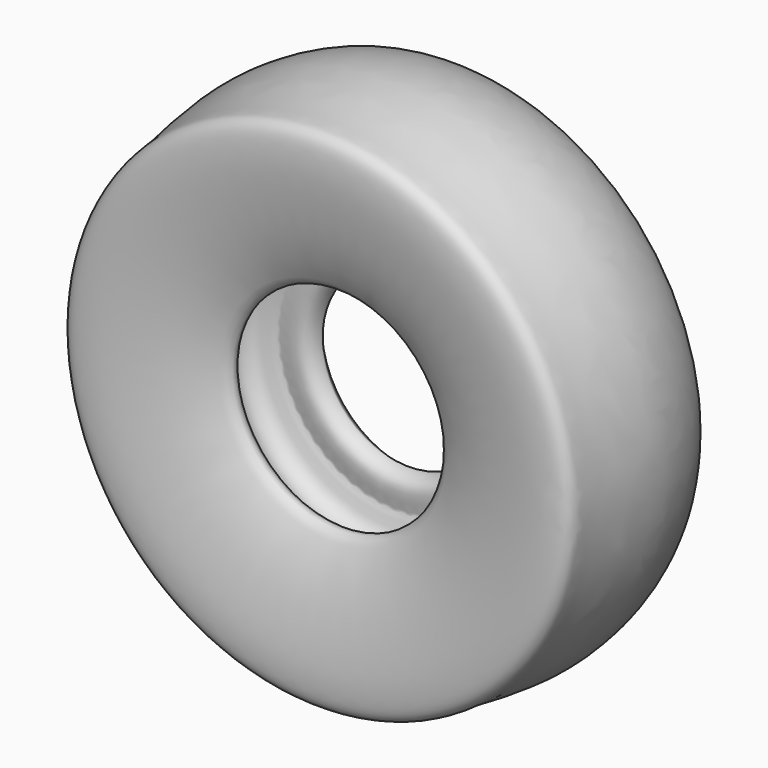
from build123d import *


with BuildPart() as f1:
    # F0 (on Top) → F1 (revolve)
    with BuildSketch(Plane.XY):
        with BuildLine():
            add(Edge.make_bspline(
                [(3.4255045466, 24.2232102901), (6.1624637, 26.0863340459), (12.57693168, 26.4588320049), (24.9292874444, 28.714060885), (36.0394182169, 33.3184654831), (45.0411678016, 39.617782139), (50.9974955591, 46.4263087705), (62.3619271087, 42.2138280498), (71.7299852559, 12.2139519298), (63.504041442, -19.2735605335), (65.3893442239, -36.4742062872), (-4.705488551, -23.0926454388), (9.5897801738, -10.6345164047), (23.5886176162, -1.5854710353), (19.3071525878, 9.558432007), (11.5110369758, 10.3555272282), (10.059743488, 12.3612752852), (-0.9417594284, 8.245294936), (-4.2420852911, 16.6339655499), (-2.7256217324, 17.5066798968), (0.7188556876, 22.3807195895), (3.4255045466, 24.2232102901)],
                knots=[0, 0, 0, 0, 0.0470134496, 0.1012397555, 0.1548130299, 0.2058799759, 0.2489734484, 0.2944400394, 0.3784596897, 0.4672874954, 0.5175620807, 0.6322984483, 0.6780107255, 0.7402526477, 0.7856483137, 0.8257287204, 0.8479258707, 0.8959841017, 0.9351698555, 0.9535071981, 1, 1, 1, 1], degree=3))
        make_face()
    revolve(axis=Axis((-38.1699092686, 8.0744037405, 0), (0, -1, 0)))


solid = f1.part
